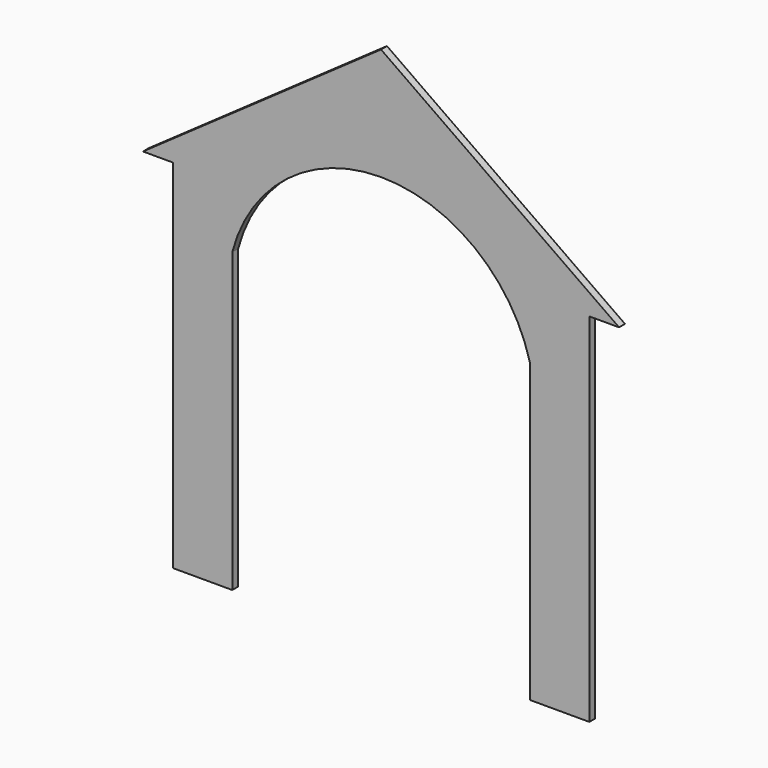
from build123d import *

# Parameters (mm, degrees)
F1_DEPTH = 12.7
F3_DEPTH = 25.4


with BuildPart() as f1:
    # F0 (on Front) → F1 (new body)
    with BuildSketch(Plane.XZ):
        Polygon((-355.6, 304.8), (-355.6, -304.8), (355.6, -304.8), (355.6, 304.8), (406.4, 304.8), (0, 590.235149), (-406.4, 304.8), align=None)
    extrude(amount=F1_DEPTH)

    # F2 (on face) → F3 (cut)
    with BuildSketch(Plane.XZ.offset(12.7)):
        with BuildLine():
            Line((-254, 203.2), (-254, -304.8))
            Line((-254, -304.8), (254, -304.8))
            Line((254, -304.8), (254, 203.2))
            ThreePointArc((254, 203.2), (0, 398.55967), (-254, 203.2))
        make_face()
    extrude(amount=-F3_DEPTH, mode=Mode.SUBTRACT)


solid = f1.part
